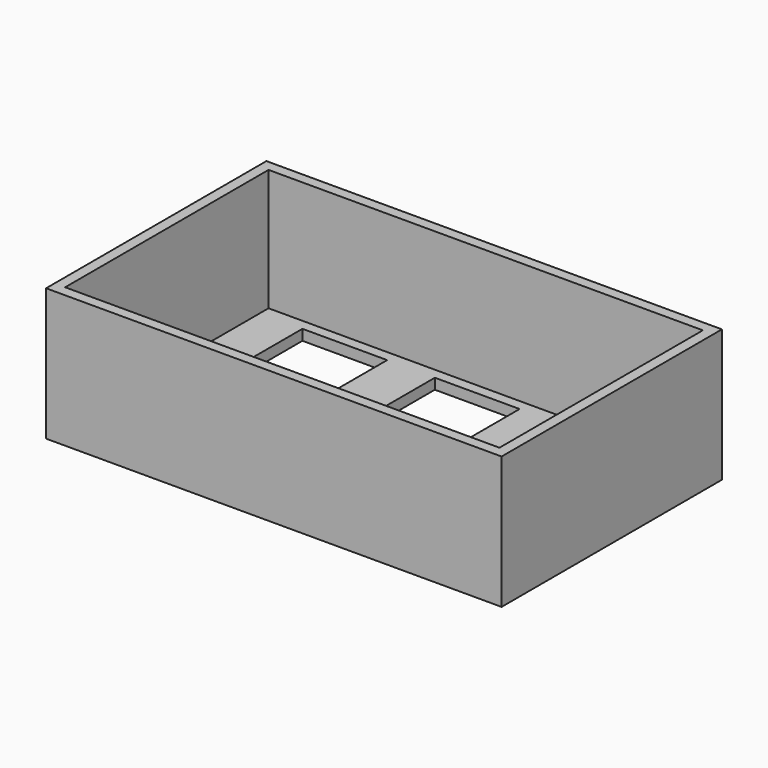
from build123d import *

# Parameters (mm, degrees)
SKETCH_W        = 86
SKETCH_H        = 52
SKETCH_W_2      = 82
SKETCH_H_2      = 48
PAD_DEPTH       = 25
SKETCH005_W     = 86
SKETCH005_H     = 52
PAD003002_DEPTH = 2
SKETCH006_W     = 16
SKETCH006_H     = 16
POCKET_DEPTH    = 2.001


with BuildPart() as part:
    # Sketch → Pad (new body)
    with BuildSketch(Plane.XY):
        with Locations((0, -14)):
            Rectangle(SKETCH_W, SKETCH_H)
        with Locations((0, -14)):
            Rectangle(SKETCH_W_2, SKETCH_H_2, mode=Mode.SUBTRACT)
    extrude(amount=PAD_DEPTH)

    # Sketch005 → Pad003002 (new body)
    with BuildSketch(Plane(origin=(0, 0, 0), x_dir=(1, 0, 0), z_dir=(0, 0, -1))):
        with Locations((0, 14)):
            Rectangle(SKETCH005_W, SKETCH005_H)
    extrude(amount=-PAD003002_DEPTH)

    # Sketch006 → Pocket (cut, through all)
    with BuildSketch(Plane.XY.offset(2)):
        Rectangle(SKETCH006_W, SKETCH006_H)
        with Locations((-25, 0)):
            Rectangle(SKETCH006_W, SKETCH006_H)
        with Locations((25, 0)):
            Rectangle(SKETCH006_W, SKETCH006_H)
    extrude(amount=-POCKET_DEPTH, mode=Mode.SUBTRACT)


solid = part.part
